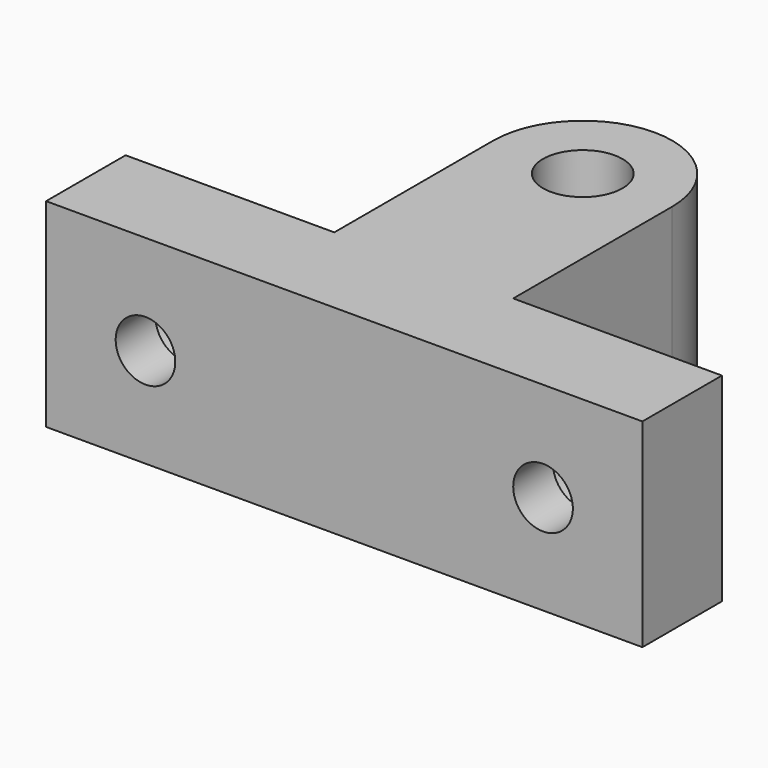
from build123d import *

# Parameters (mm, degrees)
F0_R     = 4
F1_DEPTH = 10
F2_R     = 3
F3_DEPTH = 10.001
F2_R_2   = 5.25
F4_DEPTH = 5


with BuildPart() as f1:
    # F0 (on Top) → F1 (new body, symmetric)
    with BuildSketch(Plane.XY):
        Polygon((-9, 5), (-30, 5), (-30, -5), (30, -5), (30, 5), (9, 5), align=None)
        with BuildLine():
            Line((-9, 25), (-9, 5))
            Line((-9, 5), (9, 5))
            Line((9, 5), (9, 25))
            ThreePointArc((9, 25), (0, 34), (-9, 25))
        make_face()
        with Locations((0, 25)):
            Circle(F0_R, mode=Mode.SUBTRACT)
    extrude(amount=F1_DEPTH, both=True)

    # F2 (on face) → F3 (cut, through all)
    with BuildSketch(Plane(origin=(0, 5, 0), x_dir=(-1, 0, 0), z_dir=(0, 1, 0))):
        with Locations((20, 0)):
            Circle(F2_R)
        with Locations((-20, 0)):
            Circle(F2_R)
    extrude(amount=-F3_DEPTH, mode=Mode.SUBTRACT)

    # F2 (on face) → F4 (cut)
    with BuildSketch(Plane(origin=(0, 5, 0), x_dir=(-1, 0, 0), z_dir=(0, 1, 0))):
        with Locations((20, 0)):
            Circle(F2_R_2)
        with Locations((20, 0)):
            Circle(F2_R, mode=Mode.SUBTRACT)
        with Locations((-20, 0)):
            Circle(F2_R_2)
        with Locations((-20, 0)):
            Circle(F2_R, mode=Mode.SUBTRACT)
    extrude(amount=-F4_DEPTH, mode=Mode.SUBTRACT)


solid = f1.part
